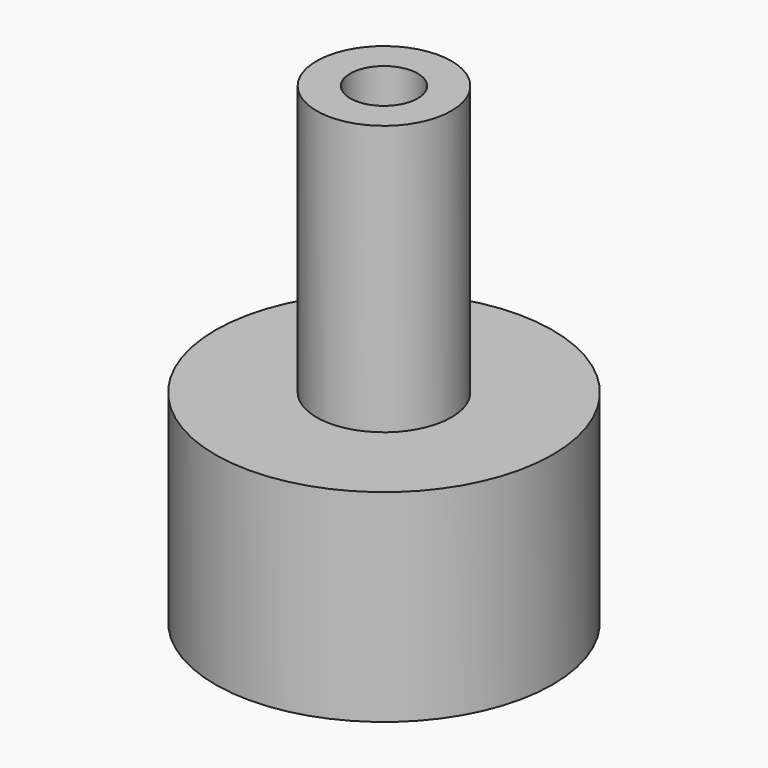
from build123d import *

# Parameters (mm, degrees)
F0_R       = 25
F1_DEPTH   = 30
F2_R       = 10
F3_DEPTH   = 40
F4_R       = 5
F1_FACE1_R = 25
F5_DEPTH   = 70.001


with BuildPart() as f1:
    # F0 (on Top) → F1 (new body)
    with BuildSketch(Plane.XY):
        Circle(F0_R)
    extrude(amount=F1_DEPTH)

    # F2 (on face) → F3 (join)
    with BuildSketch(Plane.XY.offset(30)):
        Circle(F2_R)
    extrude(amount=F3_DEPTH)

    # F4 (on face) + F1_face1 (on face) → F5 (cut, through all)
    with BuildSketch(Plane.XY.offset(70)):
        Circle(F4_R)
    with BuildSketch(Plane(origin=(0, 0, 0), x_dir=(1, 0, 0), z_dir=(0, 0, -1))):
        Circle(F1_FACE1_R)
    extrude(amount=-F5_DEPTH, dir=(0, 0, 1), mode=Mode.SUBTRACT)


solid = f1.part
